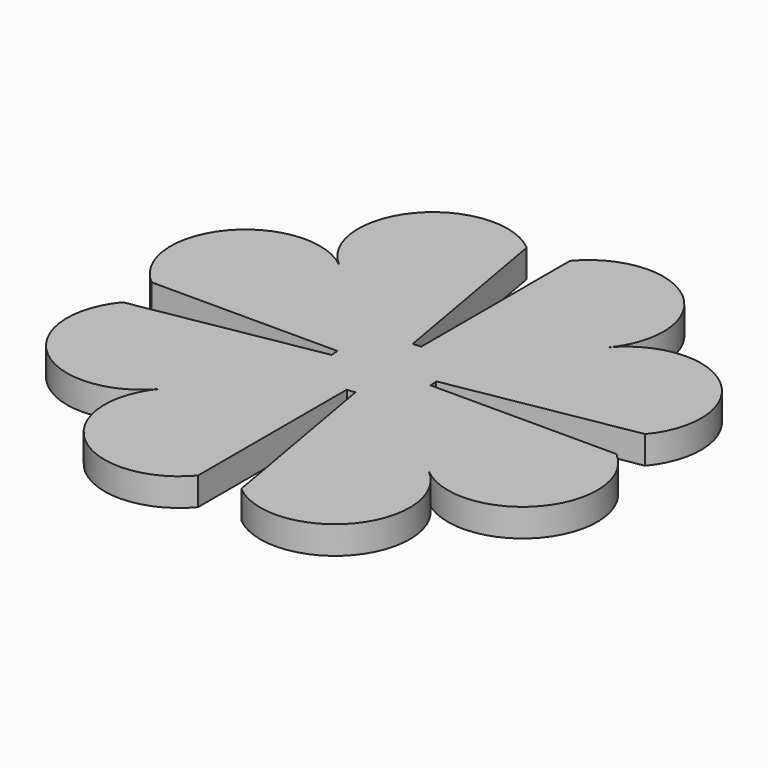
from build123d import *

# Parameters (mm, degrees)
F1_DEPTH = 3
F2_COUNT = 4
F2_ANGLE = 270
F3_R     = 5
F4_DEPTH = 3


with BuildPart() as f1:
    # F0 (on Top) → F1 (new body)
    with BuildSketch(Plane.XY):
        with BuildLine():
            Line((0, 25), (0, 0))
            Line((0, 0), (24.620194, 4.341204))
            ThreePointArc((24.620194, 4.341204), (23.629844, 15.660952), (12.310097, 14.670602))
            ThreePointArc((12.310097, 14.670602), (11.319747, 25.99035), (0, 25))
        make_face()
    extrude(amount=F1_DEPTH)



with BuildPart() as f2_1:
    # F2: instance of F1
    add(f1.part.rotate(Axis((0, 0, 1.5), (0, 0, 1)), 1 * F2_ANGLE / (F2_COUNT - 1)))


with BuildPart() as f2_2:
    # F2: instance of F1
    add(f1.part.rotate(Axis((0, 0, 1.5), (0, 0, 1)), 2 * F2_ANGLE / (F2_COUNT - 1)))


with BuildPart() as f2_3:
    # F2: instance of F1
    add(f1.part.rotate(Axis((0, 0, 1.5), (0, 0, 1)), 3 * F2_ANGLE / (F2_COUNT - 1)))


with BuildPart() as f1_1:
    add(f1.part)

    add(f2_1.part)  # F4 merges F2_1

    add(f2_2.part)  # F4 merges F2_2

    add(f2_3.part)  # F4 merges F2_3
    # F3 (on Top) → F4 (join)
    with BuildSketch(Plane.XY):
        Circle(F3_R)
    extrude(amount=F4_DEPTH)


solid = f1_1.part
